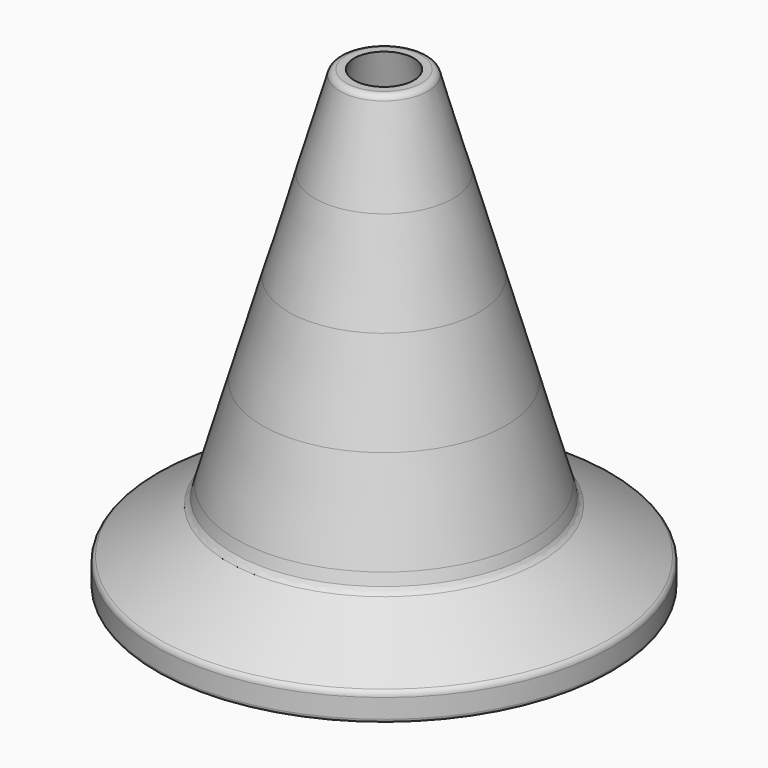
from build123d import *

# Parameters (mm, degrees)
F6_R     = 200
F7_DEPTH = 600.001
F7_TAPER = 15


with BuildPart() as f1:
    # F0 (on Front) → F1 (revolve)
    with BuildSketch(Plane.XZ):
        with BuildLine():
            Line((-90.612946863, 480), (0, 480))
            Line((0, 480), (0, 600))
            Line((0, 600), (-49.294946311, 600))
            ThreePointArc((-49.294946311, 600), (-54.7075782588, 598.1905087022), (-57.9437412272, 593.489647866))
            Line((-57.9437412272, 593.489647866), (-90.612946863, 480))
        make_face()
    revolve(axis=Axis((0, 0, 300), (0, 0, -1)))


with BuildPart() as f2:
    # F0 (on Front) → F2 (revolve)
    with BuildSketch(Plane.XZ):
        Polygon((-125.156226801, 360), (0, 360), (0, 480), (-90.612946863, 480), align=None)
    revolve(axis=Axis((0, 0, 300), (0, 0, -1)))


with BuildPart() as f3:
    # F0 (on Front) → F3 (revolve)
    with BuildSketch(Plane.XZ):
        Polygon((-159.699506739, 240), (0, 240), (0, 360), (-125.156226801, 360), align=None)
    revolve(axis=Axis((0, 0, 300), (0, 0, -1)))


with BuildPart() as f4:
    # F0 (on Front) → F4 (revolve)
    with BuildSketch(Plane.XZ):
        Polygon((-194.242786677, 120), (0, 120), (0, 240), (-159.699506739, 240), align=None)
    revolve(axis=Axis((0, 0, 300), (0, 0, -1)))


with BuildPart() as f5:
    # F0 (on Front) → F5 (revolve)
    with BuildSketch(Plane.XZ):
        with BuildLine():
            Line((-295, 0), (0, 0))
            Line((0, 0), (0, 120))
            Line((0, 120), (-194.242786677, 120))
            Line((-194.242786677, 120), (-198.4520183953, 105.37753777))
            ThreePointArc((-198.4520183953, 105.37753777), (-200.8115619505, 100.6009097054), (-204.6918513301, 96.9502966354))
            Line((-204.6918513301, 96.9502966354), (-295.9048951554, 37.661818149))
            ThreePointArc((-295.9048951554, 37.661818149), (-298.910248302, 34.4086069619), (-300, 30.1158256023))
            Line((-300, 30.1158256023), (-300, 5))
            ThreePointArc((-300, 5), (-298.5355339059, 1.4644660941), (-295, 0))
        make_face()
    revolve(axis=Axis((0, 0, 300), (0, 0, -1)))


with BuildPart() as f7_tool:
    # F6 (on face) → F7 (new body, through all)
    with BuildSketch(Plane(origin=(0, 0, 0), x_dir=(1, 0, 0), z_dir=(0, 0, -1))):
        Circle(F6_R)
    extrude(amount=-F7_DEPTH, taper=F7_TAPER)


with BuildPart() as f1_1:
    add(f1.part)

    # F7: cut by f7_tool
    add(f7_tool.part, mode=Mode.SUBTRACT)


with BuildPart() as f2_1:
    add(f2.part)

    # F7: cut by f7_tool
    add(f7_tool.part, mode=Mode.SUBTRACT)


with BuildPart() as f3_1:
    add(f3.part)

    # F7: cut by f7_tool
    add(f7_tool.part, mode=Mode.SUBTRACT)


with BuildPart() as f4_1:
    add(f4.part)

    # F7: cut by f7_tool
    add(f7_tool.part, mode=Mode.SUBTRACT)


with BuildPart() as f5_1:
    add(f5.part)

    # F7: cut by f7_tool
    add(f7_tool.part, mode=Mode.SUBTRACT)


solid = Compound([f1_1.part, f2_1.part, f3_1.part, f4_1.part, f5_1.part])
